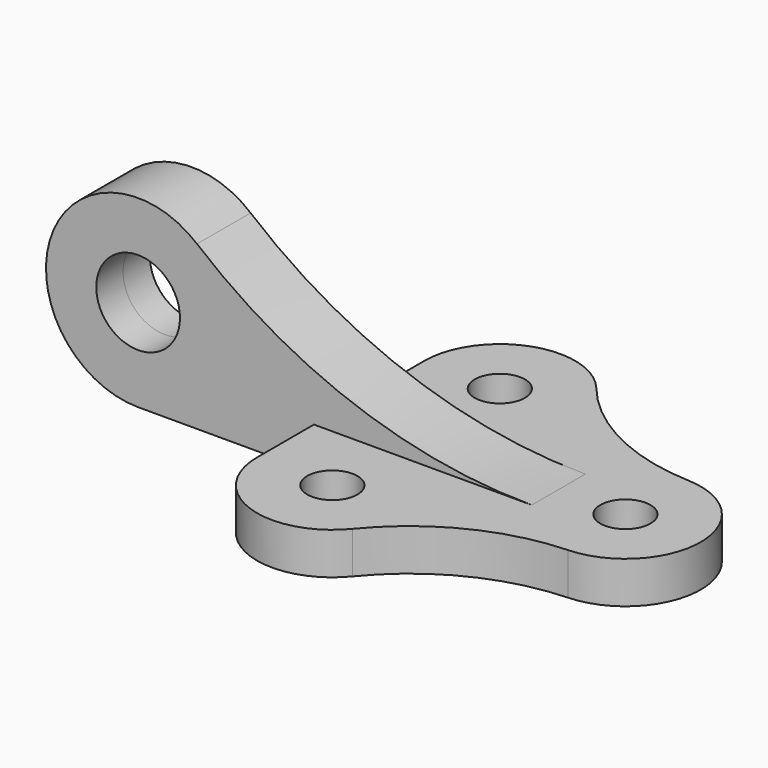
from build123d import *

# Parameters (mm, degrees)
F0_R     = 6
F1_DEPTH = 10
F2_R     = 10
F3_DEPTH = 8
F4_DEPTH = 8


with BuildPart() as f1:
    # F0 (on Top) → F1 (new body)
    with BuildSketch(Plane.XY):
        with BuildLine():
            ThreePointArc((50.720724, -17.985565), (68, 0), (50.720724, 17.985565))
            ThreePointArc((50.720724, 17.985565), (30.362055, 23.224109), (13.956018, 36.367918))
            ThreePointArc((13.956018, 36.367918), (-6.032896, 41.958896), (-18, 25))
            Line((-18, 25), (-18, -25))
            ThreePointArc((-18, -25), (-6.032896, -41.958896), (13.956018, -36.367918))
            ThreePointArc((13.956018, -36.367918), (30.362055, -23.224109), (50.720724, -17.985565))
        make_face()
        with Locations((0, -25)):
            Circle(F0_R, mode=Mode.SUBTRACT)
        with Locations((0, 25)):
            Circle(F0_R, mode=Mode.SUBTRACT)
        with Locations((50, 0)):
            Circle(F0_R, mode=Mode.SUBTRACT)
    extrude(amount=F1_DEPTH)

    # F2 (on Front) → F3 (join)
    with BuildSketch(Plane.XZ):
        with BuildLine():
            ThreePointArc((-45.928789, 38.911565), (-80.688818, 29.481496), (-60, 0))
            Line((-60, 0), (34.021274, 0))
            Line((34.021274, 0), (34.021274, 10))
            ThreePointArc((34.021274, 10), (-8.487228, 17.449895), (-45.928789, 38.911565))
        make_face()
        with Locations((-60, 22)):
            Circle(F2_R, mode=Mode.SUBTRACT)
    extrude(amount=F3_DEPTH)

    # F2 (on Front) → F4 (join)
    with BuildSketch(Plane.XZ):
        with BuildLine():
            ThreePointArc((-45.928789, 38.911565), (-80.688818, 29.481496), (-60, 0))
            Line((-60, 0), (34.021274, 0))
            Line((34.021274, 0), (34.021274, 10))
            ThreePointArc((34.021274, 10), (-8.487228, 17.449895), (-45.928789, 38.911565))
        make_face()
        with Locations((-60, 22)):
            Circle(F2_R, mode=Mode.SUBTRACT)
    extrude(amount=-F4_DEPTH)


solid = f1.part
